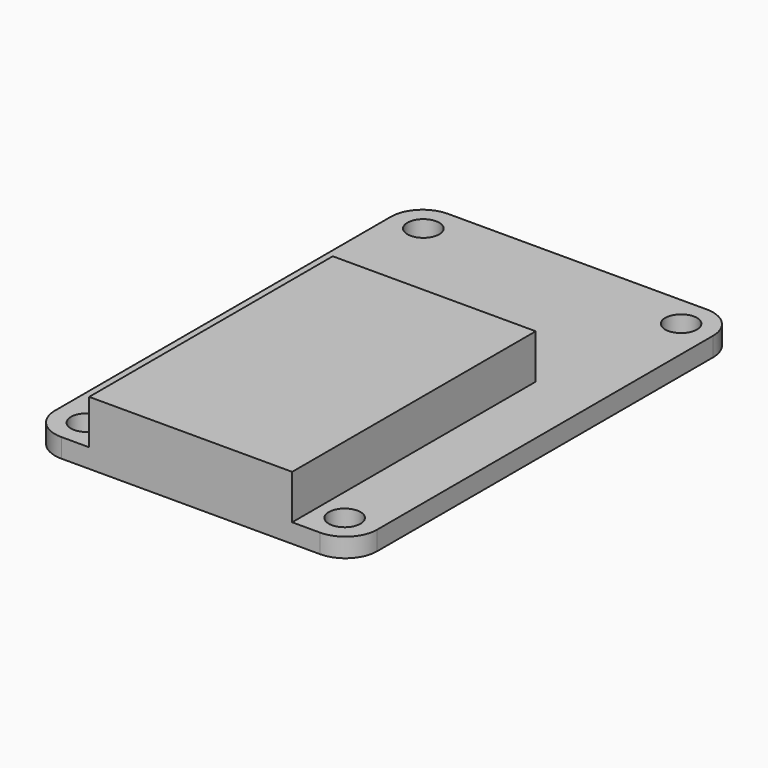
from build123d import *

# Parameters (mm, degrees)
F0_R     = 1.25
F1_DEPTH = 1.5
F2_W     = 16
F2_H     = 24
F3_DEPTH = 3.5


with BuildPart() as f1:
    # F0 (on Top) → F1 (new body)
    with BuildSketch(Plane.XY):
        with BuildLine():
            ThreePointArc((0, 2.5), (0.732233, 0.732233), (2.5, 0))
            Line((2.5, 0), (22.9, 0))
            ThreePointArc((22.9, 0), (24.667767, 0.732233), (25.4, 2.5))
            Line((25.4, 2.5), (25.4, 35.6))
            ThreePointArc((25.4, 35.6), (24.667767, 37.367767), (22.9, 38.1))
            Line((22.9, 38.1), (2.5, 38.1))
            ThreePointArc((2.5, 38.1), (0.732233, 37.367767), (0, 35.6))
            Line((0, 35.6), (0, 2.5))
        make_face()
        with Locations((2.54, 2.475)):
            Circle(F0_R, mode=Mode.SUBTRACT)
        with Locations((22.86, 2.475)):
            Circle(F0_R, mode=Mode.SUBTRACT)
        with Locations((2.54, 35.625)):
            Circle(F0_R, mode=Mode.SUBTRACT)
        with Locations((22.86, 35.625)):
            Circle(F0_R, mode=Mode.SUBTRACT)
    extrude(amount=F1_DEPTH)

    # F2 (on face) → F3 (join)
    with BuildSketch(Plane.XY.offset(1.5)):
        with Locations((12.7, 12)):
            Rectangle(F2_W, F2_H)
    extrude(amount=F3_DEPTH)


solid = f1.part
